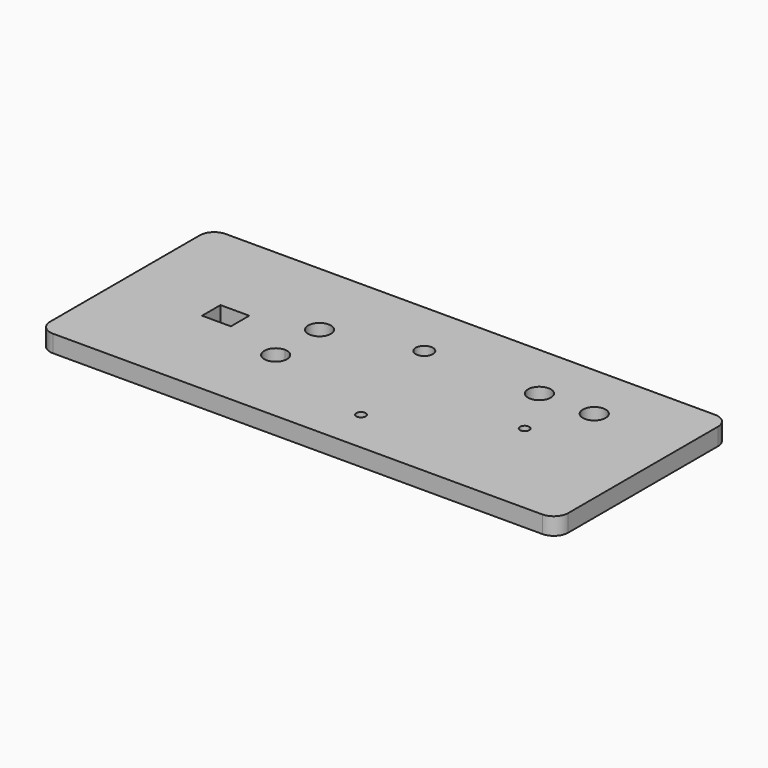
from build123d import *

# Parameters (mm, degrees)
F0_W     = 180
F0_H     = 75
F0_R     = 1.6
F0_W_2   = 10
F0_H_2   = 8
F0_R_2   = 3
F0_R_3   = 3.9624
F1_DEPTH = 6
F2_R     = 5


with BuildPart() as f1:
    # F0 (on Top) → F1 (new body)
    with BuildSketch(Plane.XY):
        Rectangle(F0_W, F0_H)
        with BuildLine():
            ThreePointArc((-26.0376, -9.5475), (-32.80184, -12.34934), (-30, -5.5851))
            ThreePointArc((-30, -5.5851), (-27.19816, -6.74566), (-26.0376, -9.5475))
        make_face(mode=Mode.SUBTRACT)
        with Locations((10, -22.5)):
            Circle(F0_R, mode=Mode.SUBTRACT)
        with Locations((49.7, -1.06)):
            Circle(F0_R, mode=Mode.SUBTRACT)
        with Locations((-55, 0)):
            Rectangle(F0_W_2, F0_H_2, mode=Mode.SUBTRACT)
        with BuildLine():
            ThreePointArc((-30, 5.5401), (-32.80184, 12.30434), (-26.0376, 9.5025))
            ThreePointArc((-26.0376, 9.5025), (-27.19816, 6.70066), (-30, 5.5401))
        make_face(mode=Mode.SUBTRACT)
        with Locations((0, 17.5)):
            Circle(F0_R_2, mode=Mode.SUBTRACT)
        with Locations((40, 17.5)):
            Circle(F0_R_3, mode=Mode.SUBTRACT)
        with Locations((59.05, 17.5)):
            Circle(F0_R_3, mode=Mode.SUBTRACT)
    extrude(amount=F1_DEPTH)

    # F2
    f2_edges = [f1.edges().sort_by_distance(p)[0] for p in [
        (-90, 37.5, 3),
        (90, 37.5, 3),
        (90, -37.5, 3),
        (-90, -37.5, 3),
    ]]
    fillet(f2_edges, radius=F2_R)


solid = f1.part
